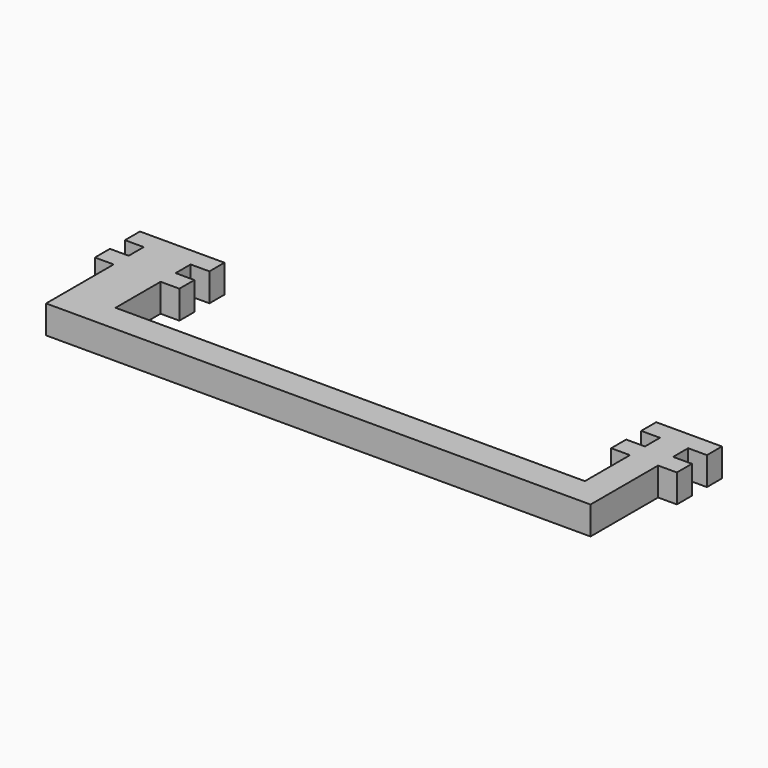
from build123d import *

# Parameters (mm, degrees)
F1_DEPTH = 3


with BuildPart() as f1:
    # F0 (on Top) → F1 (new body)
    with BuildSketch(Plane.XY):
        Polygon((3.5, 0), (-3.5, 0), (-3.5, -2), (-1.5, -2), (-1.5, -4), (-3.5, -4), (-3.5, -6), (-1.5, -6), (-1.5, -12), (-51.5, -12), (-51.5, -6), (-49.5, -6), (-49.5, -4), (-51.5, -4), (-51.5, -2), (-49.5, -2), (-49.5, 0), (-58.5, 0), (-58.5, -2), (-56.5, -2), (-56.5, -4), (-58.5, -4), (-58.5, -6), (-56.5, -6), (-56.5, -15), (1.5, -15), (1.5, -6), (3.5, -6), (3.5, -4), (1.5, -4), (1.5, -2), (3.5, -2), align=None)
    extrude(amount=F1_DEPTH)


solid = f1.part
